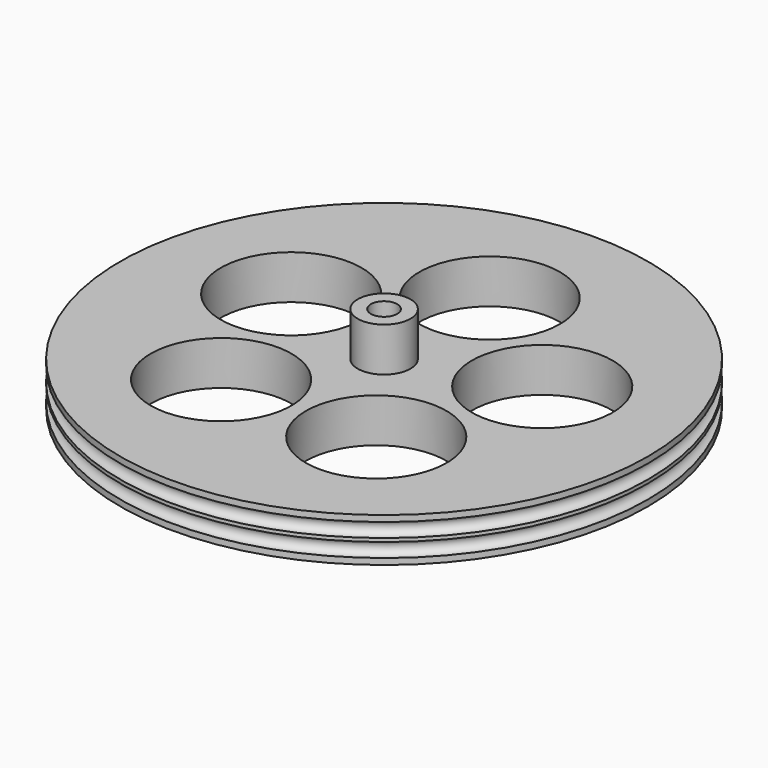
from build123d import *

# Parameters (mm, degrees)
CYLINDER024_R     = 8
CYLINDER024_DEPTH = 10
ARRAY003_COUNT    = 5
CYLINDER023_R     = 1.5
CYLINDER023_DEPTH = 10
TORUS005_R        = 0.8
TORUS004_R        = 0.8
CYLINDER021_R     = 30
CYLINDER021_DEPTH = 5
CYLINDER022_R     = 3
CYLINDER022_DEPTH = 10


with BuildPart() as fusion014:
    # Cylinder024 → Cylinder024 (new body)
    with BuildSketch(Plane(origin=(0, 15, 0), x_dir=(1, 0, 0), z_dir=(0, 0, 1))):
        Circle(CYLINDER024_R)
    extrude(amount=CYLINDER024_DEPTH)

    # Array003: Fusion014 ×5 about axis
    array003_axis = Axis((0, 0, 0), (0, 0, 1))


with BuildPart() as fusion014_1:
    add(fusion014.part)
    for i in range(1, ARRAY003_COUNT):
        add(fusion014.part.rotate(array003_axis, i * 360 / ARRAY003_COUNT))


with BuildPart() as cylinder023:
    # Cylinder023 → Cylinder023 (new body)
    with BuildSketch(Plane.XY):
        Circle(CYLINDER023_R)
    extrude(amount=CYLINDER023_DEPTH)


with BuildPart() as torus005:
    # Torus005 → Torus005 (revolve)
    with BuildSketch(Plane(origin=(0, 0, 3.5), x_dir=(1, 0, 0), z_dir=(0, -1, 0))):
        with Locations((30, 0)):
            Circle(TORUS005_R)
    revolve(axis=Axis((0, 0, 3.5), (0, 0, 1)))


with BuildPart() as torus004:
    # Torus004 → Torus004 (revolve)
    with BuildSketch(Plane(origin=(0, 0, 1.5), x_dir=(1, 0, 0), z_dir=(0, -1, 0))):
        with Locations((30, 0)):
            Circle(TORUS004_R)
    revolve(axis=Axis((0, 0, 1.5), (0, 0, 1)))


with BuildPart() as cut015:
    # Cylinder021 → Cylinder021 (new body)
    with BuildSketch(Plane.XY):
        Circle(CYLINDER021_R)
    extrude(amount=CYLINDER021_DEPTH)

    # Cut014: cut Torus004
    add(torus004.part, mode=Mode.SUBTRACT)

    # Cut015: cut Torus005
    add(torus005.part, mode=Mode.SUBTRACT)


with BuildPart() as cut017:
    # Cylinder022 → Cylinder022 (new body)
    with BuildSketch(Plane.XY):
        Circle(CYLINDER022_R)
    extrude(amount=CYLINDER022_DEPTH)

    # Fusion013: union Cut015
    add(cut015.part)

    # Cut016: cut Cylinder023
    add(cylinder023.part, mode=Mode.SUBTRACT)

    # Cut017: cut Fusion014
    add(fusion014_1.part, mode=Mode.SUBTRACT)


with BuildPart() as cut017_1:
    # Cut017 placement: moved
    add(cut017.part.moved(Location((47, 54, -26))))


solid = cut017_1.part
